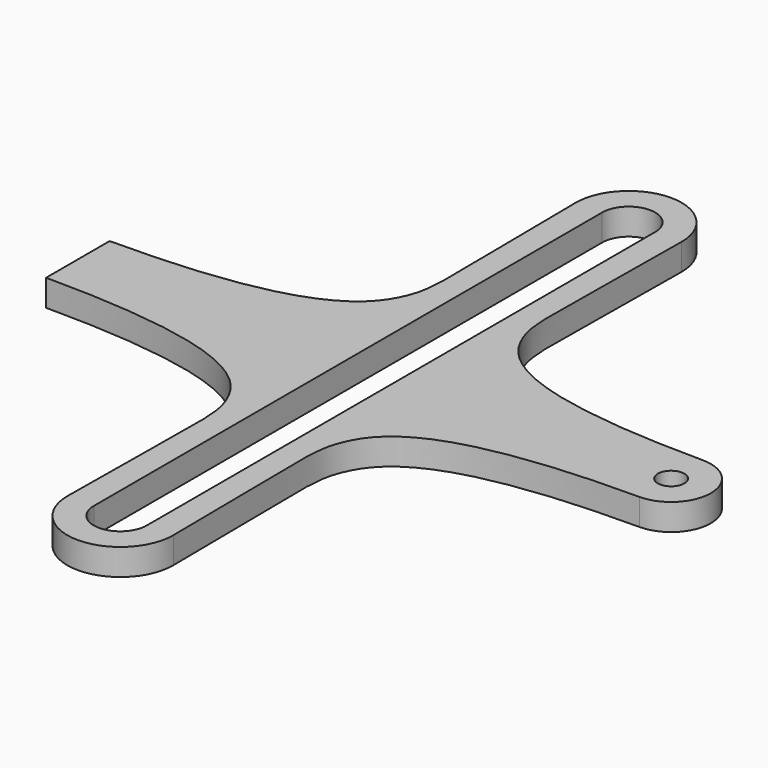
from build123d import *

# Parameters (mm, degrees)
F0_R     = 3.175
F1_DEPTH = 6.35


with BuildPart() as f1:
    # F0 (on Top) → F1 (new body)
    with BuildSketch(Plane.XY):
        with BuildLine():
            add(Edge.make_bspline(
                [(12.6999774132, 76.1760478683), (12.6272396661, 37.6088022986), (9.5681586268, 28.3894937776), (25.5841249437, 9.525), (71.131721139, 9.525)],
                knots=[0, 0, 0, 0, 0.4770256041, 1, 1, 1, 1], degree=3))
            ThreePointArc((12.6999774132, 76.1760478683), (0, 88.9), (-12.6999774132, 76.1760478683))
            add(Edge.make_bspline(
                [(-12.6999774132, 76.1760478683), (-12.6272396661, 37.6088022986), (-9.5681586268, 28.3894937776), (-25.5841249437, 9.525), (-71.131721139, 9.525)],
                knots=[0, 0, 0, 0, 0.4770256041, 1, 1, 1, 1], degree=3))
            Line((-71.131721139, 9.525), (-71.131721139, -9.525))
            add(Edge.make_bspline(
                [(-12.6999774132, -76.1760478683), (-12.6272396661, -37.6088022986), (-9.5681586268, -28.3894937776), (-25.5841249437, -9.525), (-71.131721139, -9.525)],
                knots=[0, 0, 0, 0, 0.4770256041, 1, 1, 1, 1], degree=3))
            ThreePointArc((-12.6999774132, -76.1760478683), (0, -88.9), (12.6999774132, -76.1760478683))
            add(Edge.make_bspline(
                [(12.6999774132, -76.1760478683), (12.6272396661, -37.6088022986), (9.5681586268, -28.3894937776), (25.5841249437, -9.525), (71.131721139, -9.525)],
                knots=[0, 0, 0, 0, 0.4770256041, 1, 1, 1, 1], degree=3))
            ThreePointArc((71.131721139, -9.525), (80.656721139, 0), (71.131721139, 9.525))
        make_face()
        with BuildLine():
            ThreePointArc((-6.35, 76.2), (0, 82.55), (6.35, 76.2))
            Line((6.35, 76.2), (6.35, -76.2))
            ThreePointArc((6.35, -76.2), (0, -82.55), (-6.35, -76.2))
            Line((-6.35, -76.2), (-6.35, 76.2))
        make_face(mode=Mode.SUBTRACT)
        with Locations((71.131721139, 0)):
            Circle(F0_R, mode=Mode.SUBTRACT)
    extrude(amount=F1_DEPTH)


solid = f1.part
